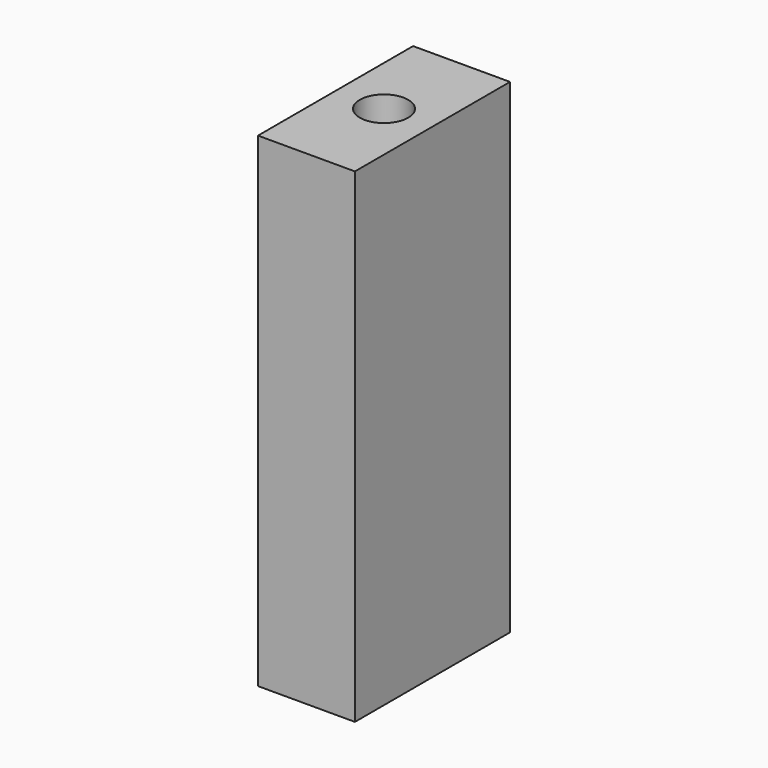
from build123d import *

# Parameters (mm, degrees)
F0_W     = 20
F0_H     = 40
F1_DEPTH = 100
F2_R     = 5
F3_DEPTH = 25
F4_R     = 5
F5_DEPTH = 25


with BuildPart() as f1:
    # F0 (on Top) → F1 (new body)
    with BuildSketch(Plane.XY):
        Rectangle(F0_W, F0_H)
    extrude(amount=F1_DEPTH)

    # F2 (on face) → F3 (cut)
    with BuildSketch(Plane.XY.offset(100)):
        Circle(F2_R)
    extrude(amount=-F3_DEPTH, mode=Mode.SUBTRACT)

    # F4 (on face) → F5 (cut)
    with BuildSketch(Plane(origin=(0, 0, 0), x_dir=(1, 0, 0), z_dir=(0, 0, -1))):
        Circle(F4_R)
    extrude(amount=-F5_DEPTH, mode=Mode.SUBTRACT)


solid = f1.part
